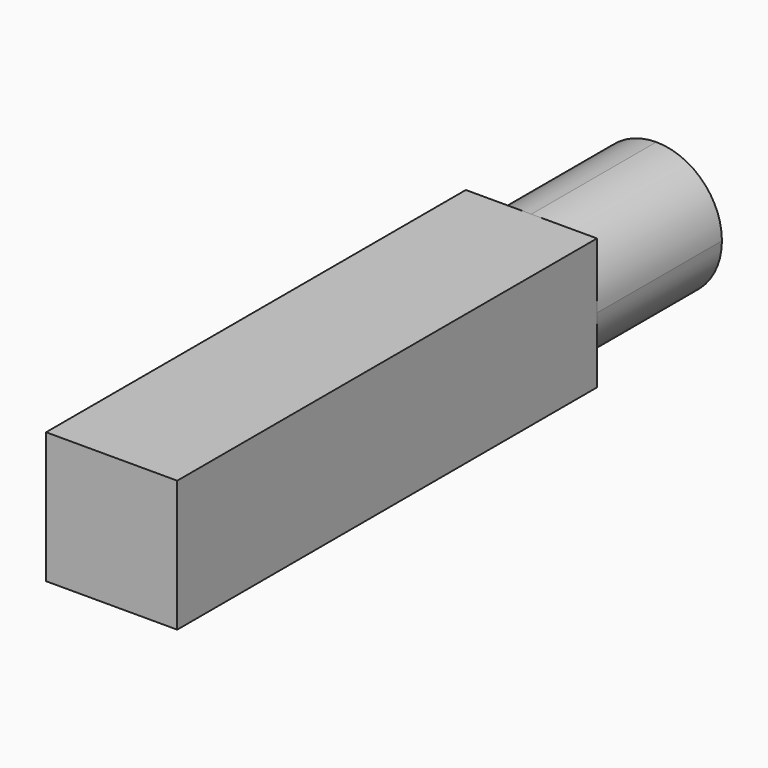
from build123d import *

# Parameters (mm, degrees)
F0_W          = 8000
F0_H          = 2000
F1_DEPTH      = 1000
F3_DEPTH      = 2381.458
F3_DEPTH_BACK = 500


with BuildPart() as f1:
    # F0 (on Right) → F1 (new body, symmetric)
    with BuildSketch(Plane.YZ):
        Rectangle(F0_W, F0_H)
    extrude(amount=F1_DEPTH, both=True)


with BuildPart() as f3:
    # F2 (on face) → F3 (new body, two sides)
    with BuildSketch(Plane(origin=(0, 4000, 0), x_dir=(-1, 0, 0), z_dir=(0, 1, 0))) as f3_sk:
        with BuildLine():
            ThreePointArc((-1e-06, -1000), (707.106781, -707.106782), (1000, 0))
            ThreePointArc((1000, 0), (707.106782, 707.10678), (2e-06, 1000))
            ThreePointArc((2e-06, 1000), (-707.106782, 707.106781), (-1000, -3e-06))
            ThreePointArc((-1000, -3e-06), (-707.10678, -707.106782), (-1e-06, -1000))
        make_face()
    extrude(amount=F3_DEPTH)
    extrude(f3_sk.sketch, amount=-F3_DEPTH_BACK)


solid = Compound([f1.part, f3.part])
